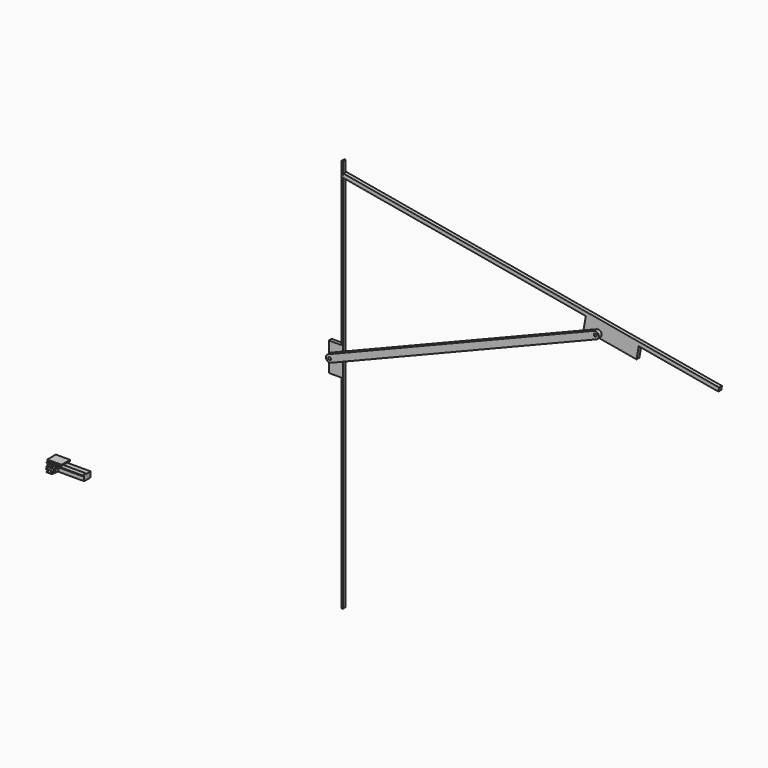
from build123d import *

# Parameters (mm, degrees)
F0_W     = 4
F0_H     = 40
F1_DEPTH = 10
F2_DEPTH = 10
F3_DEPTH = 30
F4_DEPTH = 22.8
F5_DEPTH = 6.2
F6_DEPTH = 7.8
F7_DEPTH = 13.9


with BuildPart() as f1:
    # F0 (on Front) → F1 (new body)
    with BuildSketch(Plane.XZ):
        with Locations((-280.9693748896, 1001.3177108765)):
            Rectangle(F0_W, F0_H)
        Polygon((-278.9693748896, 553.778526953), (-278.9693748896, 981.3177108765), (-282.9693748896, 981.3177108765), (-282.9693748896, 568.3815050125), (-282.9693748896, 552.1674667156), align=None)
        with BuildLine():
            Line((-282.9693748896, 552.1674667156), (-282.9693748896, 568.3815050125))
            Line((-282.9693748896, 568.3815050125), (-317.9693748896, 568.3815050125))
            Line((-317.9693748896, 568.3815050125), (-317.9693748896, 531.3177108765))
            ThreePointArc((-317.9693748896, 531.3177108765), (-316.2567167208, 536.9141352146), (-311.7053818151, 540.593607181))
            Line((-311.7053818151, 540.593607181), (-282.9693748896, 552.1674667156))
        make_face()
        with BuildLine():
            ThreePointArc((-304.233367964, 522.0418145719), (-313.5657992277, 523.0303690452), (-317.9693748896, 531.3177108765))
            Line((-317.9693748896, 531.3177108765), (-317.9693748896, 488.3815050125))
            Line((-317.9693748896, 488.3815050125), (-282.9693748896, 488.3815050125))
            Line((-282.9693748896, 488.3815050125), (-282.9693748896, 530.6062080044))
            Line((-282.9693748896, 530.6062080044), (-304.233367964, 522.0418145719))
        make_face()
        with BuildLine():
            Line((-282.9693748896, 541.38683736), (-282.9693748896, 552.1674667156))
            Line((-282.9693748896, 552.1674667156), (-311.7053818151, 540.593607181))
            ThreePointArc((-311.7053818151, 540.593607181), (-316.2567167208, 536.9141352146), (-317.9693748896, 531.3177108765))
            ThreePointArc((-317.9693748896, 531.3177108765), (-313.5657992277, 523.0303690452), (-304.233367964, 522.0418145719))
            Line((-304.233367964, 522.0418145719), (-282.9693748896, 530.6062080044))
            Line((-282.9693748896, 530.6062080044), (-282.9693748896, 531.3177108765))
            Line((-282.9693748896, 531.3177108765), (-303.9693748896, 531.3177108765))
            ThreePointArc((-303.9693748896, 531.3177108765), (-311.8962969723, 530.5566044737), (-304.2590163678, 532.8121136467))
            Line((-304.2590163678, 532.8121136467), (-282.9693748896, 541.38683736))
        make_face()
        with BuildLine():
            Line((-282.9693748896, 531.3177108765), (-282.9693748896, 541.38683736))
            Line((-282.9693748896, 541.38683736), (-304.2590163678, 532.8121136467))
            ThreePointArc((-304.2590163678, 532.8121136467), (-304.0424528069, 532.0788172793), (-303.9693748896, 531.3177108765))
            Line((-303.9693748896, 531.3177108765), (-282.9693748896, 531.3177108765))
        make_face()
        Polygon((-282.9693748896, 530.6062080044), (-281.2028292186, 531.3177108765), (-282.9693748896, 531.3177108765), align=None)
        Polygon((-278.9693748896, 531.3177108765), (-278.9693748896, 532.2172682418), (-281.2028292186, 531.3177108765), align=None)
        Polygon((-278.9693748896, 532.2172682418), (-278.9693748896, 542.9978975974), (-282.9693748896, 541.38683736), (-282.9693748896, 531.3177108765), (-281.2028292186, 531.3177108765), align=None)
        Polygon((-278.9693748896, 542.9978975974), (-278.9693748896, 553.778526953), (-282.9693748896, 552.1674667156), (-282.9693748896, 541.38683736), align=None)
        Polygon((-278.9693748896, -78.6822891235), (-278.9693748896, 531.3177108765), (-281.2028292186, 531.3177108765), (-282.9693748896, 530.6062080044), (-282.9693748896, 488.3815050125), (-282.9693748896, -78.6822891235), align=None)
    extrude(amount=-F1_DEPTH)


with BuildPart() as f1b:
    # F0 (on Front) → F1, piece 2 (new body)
    with BuildSketch(Plane.XZ):
        Polygon((-277.075792163, 992.0567521677), (-278.9693748896, 981.3177108765), (399.5981600666, 861.6679462309), (547.3193230184, 835.6207195808), (769.8508820684, 796.3824016612), (771.744464795, 807.1214429524), align=None)
        with BuildLine():
            Line((547.3193230184, 835.6207195808), (399.5981600666, 861.6679462309))
            Line((399.5981600666, 861.6679462309), (393.5204738483, 827.1996748754))
            Line((393.5204738483, 827.1996748754), (397.9510892088, 826.4184378462))
            Line((397.9510892088, 826.4184378462), (430.3663225466, 839.4741612251))
            ThreePointArc((430.3663225466, 839.4741612251), (443.3782257766, 833.9342718461), (437.8383363977, 820.9223686161))
            Line((437.8383363977, 820.9223686161), (435.1839593227, 819.8532782759))
            Line((435.1839593227, 819.8532782759), (541.2416368001, 801.1524482254))
            Line((541.2416368001, 801.1524482254), (547.3193230184, 835.6207195808))
        make_face()
        with BuildLine():
            Line((430.3663225466, 839.4741612251), (397.9510892088, 826.4184378462))
            Line((397.9510892088, 826.4184378462), (416.5675242658, 823.1358580611))
            Line((416.5675242658, 823.1358580611), (435.1839593227, 819.8532782759))
            Line((435.1839593227, 819.8532782759), (437.8383363977, 820.9223686161))
            ThreePointArc((437.8383363977, 820.9223686161), (443.3782257766, 833.9342718461), (430.3663225466, 839.4741612251))
        make_face()
        with BuildLine():
            ThreePointArc((438.1023294721, 830.1982649206), (434.8634358749, 826.2713428379), (430.3919709503, 828.7038621504))
            ThreePointArc((430.3919709503, 828.7038621504), (433.3412230693, 834.1251870033), (438.1023294721, 830.1982649206))
        make_face(mode=Mode.SUBTRACT)
    extrude(amount=-F1_DEPTH)


with BuildPart() as f2:
    # F0 (on Front) → F2 (new body)
    with BuildSketch(Plane.XZ):
        with BuildLine():
            Line((-282.9693748896, 541.38683736), (-282.9693748896, 552.1674667156))
            Line((-282.9693748896, 552.1674667156), (-311.7053818151, 540.593607181))
            ThreePointArc((-311.7053818151, 540.593607181), (-316.2567167208, 536.9141352146), (-317.9693748896, 531.3177108765))
            ThreePointArc((-317.9693748896, 531.3177108765), (-313.5657992277, 523.0303690452), (-304.233367964, 522.0418145719))
            Line((-304.233367964, 522.0418145719), (-282.9693748896, 530.6062080044))
            Line((-282.9693748896, 530.6062080044), (-282.9693748896, 531.3177108765))
            Line((-282.9693748896, 531.3177108765), (-303.9693748896, 531.3177108765))
            ThreePointArc((-303.9693748896, 531.3177108765), (-311.8962969723, 530.5566044737), (-304.2590163678, 532.8121136467))
            Line((-304.2590163678, 532.8121136467), (-282.9693748896, 541.38683736))
        make_face()
        Polygon((-278.9693748896, 542.9978975974), (-278.9693748896, 553.778526953), (-282.9693748896, 552.1674667156), (-282.9693748896, 541.38683736), align=None)
        with BuildLine():
            Line((-282.9693748896, 531.3177108765), (-282.9693748896, 541.38683736))
            Line((-282.9693748896, 541.38683736), (-304.2590163678, 532.8121136467))
            ThreePointArc((-304.2590163678, 532.8121136467), (-304.0424528069, 532.0788172793), (-303.9693748896, 531.3177108765))
            Line((-303.9693748896, 531.3177108765), (-282.9693748896, 531.3177108765))
        make_face()
        Polygon((-278.9693748896, 532.2172682418), (-278.9693748896, 542.9978975974), (-282.9693748896, 541.38683736), (-282.9693748896, 531.3177108765), (-281.2028292186, 531.3177108765), align=None)
        Polygon((-282.9693748896, 530.6062080044), (-281.2028292186, 531.3177108765), (-282.9693748896, 531.3177108765), align=None)
        Polygon((397.9510892088, 826.4184378462), (-278.9693748896, 553.778526953), (-278.9693748896, 542.9978975974), (416.5675242658, 823.1358580611), align=None)
        Polygon((416.5675242658, 823.1358580611), (-278.9693748896, 542.9978975974), (-278.9693748896, 532.2172682418), (435.1839593227, 819.8532782759), align=None)
        with BuildLine():
            Line((430.3663225466, 839.4741612251), (397.9510892088, 826.4184378462))
            Line((397.9510892088, 826.4184378462), (416.5675242658, 823.1358580611))
            Line((416.5675242658, 823.1358580611), (435.1839593227, 819.8532782759))
            Line((435.1839593227, 819.8532782759), (437.8383363977, 820.9223686161))
            ThreePointArc((437.8383363977, 820.9223686161), (443.3782257766, 833.9342718461), (430.3663225466, 839.4741612251))
        make_face()
        with BuildLine():
            ThreePointArc((438.1023294721, 830.1982649206), (434.8634358749, 826.2713428379), (430.3919709503, 828.7038621504))
            ThreePointArc((430.3919709503, 828.7038621504), (433.3412230693, 834.1251870033), (438.1023294721, 830.1982649206))
        make_face(mode=Mode.SUBTRACT)
    extrude(amount=F2_DEPTH)


with BuildPart() as f3:
    # F0 (on Front) → F3 (new body)
    with BuildSketch(Plane.XZ):
        Polygon((-1104.308552742, 20), (-1104.308552742, 0), (-1101.308552742, 0), (-1101.308552742, 9), (-1101.308552742, 15), (-1101.308552742, 17), (-1064.308552742, 17), (-1064.308552742, 20), align=None)
    extrude(amount=-F3_DEPTH)


with BuildPart() as f4:
    # F0 (on Front) → F4 (new body)
    with BuildSketch(Plane.XZ):
        Polygon((-1101.308552742, 15), (-1101.308552742, 9), (-1099.5766592026, 9), (-1074.5766592026, 9), (-1073.308552742, 9), (-1073.308552742, 0), (-1001.308552742, 0), (-1001.308552742, 15), align=None)
    extrude(amount=-F4_DEPTH)

    # F0 (on Front) → F6 (join, symmetric)
    with BuildSketch(Plane.XZ):
        Polygon((-1074.5766592026, 9), (-1099.5766592026, 9), (-1099.5766592026, 0), (-1092.0766592026, 0), (-1092.0766592026, 2), (-1097.5766592026, 2), (-1097.5766592026, 7), (-1076.5766592026, 7), (-1076.5766592026, 2), (-1082.0766592026, 2), (-1082.0766592026, 0), (-1074.5766592026, 0), align=None)
    extrude(amount=F6_DEPTH, both=True)


with BuildPart() as f5:
    # F0 (on Front) → F5 (new body, symmetric)
    with BuildSketch(Plane.XZ):
        Polygon((-1101.308552742, 17), (-1101.308552742, 15), (-1001.308552742, 15), (-1001.308552742, 17), (-1064.308552742, 17), align=None)
    extrude(amount=F5_DEPTH, both=True)


with BuildPart() as f7:
    # F0 (on Front) → F7 (new body, symmetric)
    with BuildSketch(Plane.XZ):
        Polygon((-1091.1783339338, -0.725868158), (-1094.6783339338, -0.725868158), (-1094.6783339338, -2.725868158), (-1079.6783339338, -2.725868158), (-1079.6783339338, -0.725868158), (-1083.1783339338, -0.725868158), (-1083.1783339338, 3.3500614809), (-1077.8651758985, 3.3500614809), (-1077.8651758985, 5.3152422188), (-1096.4914919691, 5.3152422188), (-1096.4914919691, 3.3500614809), (-1091.1783339338, 3.3500614809), align=None)
    extrude(amount=F7_DEPTH, both=True)


solid = Compound([f1.part, f1b.part, f2.part, f3.part, f4.part, f5.part, f7.part])
